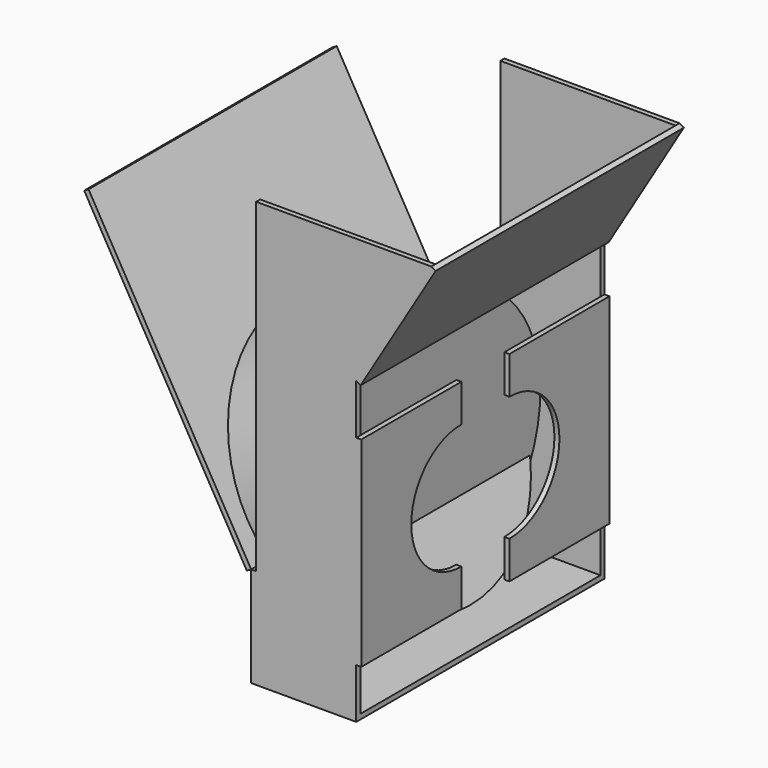
from build123d import *

# Parameters (mm, degrees)
F0_W      = 101.6
F0_H      = 304.8
F1_DEPTH  = 2.54
F3_DEPTH  = 5.08
F5_DEPTH  = 5.08
F6_W      = 314.96
F6_H      = 148.1061781291
F7_DEPTH  = 5.08
F8_W      = 314.96
F8_H      = 101.6
F9_DEPTH  = 5.08
F11_DEPTH = 5.08
F12_ANGLE = 30
F14_DEPTH = 5.08
F15_W     = 5.08
F15_H     = 203.2
F16_DEPTH = 5.08
F17_R     = 139.7
F18_DEPTH = 50.8
F19_R     = 139.7
F20_DEPTH = 50.8


with BuildPart() as f1:
    # F0 (on Top) → F1 (new body, symmetric)
    with BuildSketch(Plane.XY):
        Rectangle(F0_W, F0_H)
    extrude(amount=F1_DEPTH, both=True)

    # F2 (on face) → F3 (join)
    with BuildSketch(Plane.XZ.offset(152.4)):
        Polygon((50.8, 429.26), (-50.8, 429.26), (-50.8, -2.54), (50.8, -2.54), (50.8, 302.26), align=None)
        Polygon((127, 429.26), (50.8, 429.26), (50.8, 302.26), align=None)
    extrude(amount=F3_DEPTH)

    # F4 (on face) → F5 (join)
    with BuildSketch(Plane(origin=(0, 152.4, 0), x_dir=(-1, 0, 0), z_dir=(0, 1, 0))):
        Polygon((50.8, 429.26), (-50.8, 429.26), (-50.8, 302.26), (-50.8, -2.54), (50.8, -2.54), align=None)
        Polygon((-50.8, 302.26), (-50.8, 429.26), (-127, 429.26), align=None)
    extrude(amount=F5_DEPTH)

    # F6 (on face) → F7 (join)
    with BuildSketch(Plane(origin=(-95.9970588235, 0, 57.5982352941), x_dir=(0, 1, 0), z_dir=(0.8574929257, 0, -0.5144957554))):
        with Locations((0, 359.3752851661)):
            Rectangle(F6_W, F6_H)
    extrude(amount=F7_DEPTH)

    # F8 (on face) → F9 (join)
    with BuildSketch(Plane(origin=(-50.8, 0, 0), x_dir=(0, -1, 0), z_dir=(-1, 0, 0))):
        with Locations((0, 48.26)):
            Rectangle(F8_W, F8_H)
    extrude(amount=F9_DEPTH)

    # F13 (on face) → F14 (join)
    with BuildSketch(Plane.YZ.offset(50.8)):
        with BuildLine():
            Line((30.48, 86.36), (30.48, 48.26))
            Line((30.48, 48.26), (157.48, 48.26))
            Line((157.48, 48.26), (157.48, 251.46))
            Line((157.48, 251.46), (30.48, 251.46))
            Line((30.48, 251.46), (30.48, 213.36))
            ThreePointArc((30.48, 213.36), (93.98, 149.86), (30.48, 86.36))
        make_face()
    extrude(amount=F14_DEPTH)

    # F15 (on face) → F16 (join)
    with BuildSketch(Plane.YZ.offset(50.8)):
        with BuildLine():
            Line((-30.48, 251.46), (-152.4, 251.46))
            Line((-152.4, 251.46), (-152.4, 48.26))
            Line((-152.4, 48.26), (-30.48, 48.26))
            Line((-30.48, 48.26), (-30.48, 86.36))
            ThreePointArc((-30.48, 86.36), (-93.98, 149.86), (-30.48, 213.36))
            Line((-30.48, 213.36), (-30.48, 251.46))
        make_face()
        with Locations((-154.94, 149.86)):
            Rectangle(F15_W, F15_H)
    extrude(amount=F16_DEPTH)

    # F17 (on face) → F18 (join)
    with BuildSketch(Plane.YZ.offset(-50.8)):
        with Locations((0, 156.6007137299)):
            Circle(F17_R)
    extrude(amount=F18_DEPTH)


with BuildPart() as f11:
    # F10 (on face) → F11 (new body)
    with BuildSketch(Plane(origin=(-55.88, 0, 0), x_dir=(0, -1, 0), z_dir=(-1, 0, 0))):
        Polygon((-157.48, 429.26), (-157.48, 99.06), (0, 99.06), (157.48, 99.06), (157.48, 429.26), align=None)
        with BuildLine():
            ThreePointArc((63.5, 187.96), (44.9012806053, 143.0587193947), (0, 124.46))
            ThreePointArc((0, 124.46), (-44.9012806053, 232.8612806053), (63.5, 187.96))
        make_face(mode=Mode.SUBTRACT)
    extrude(amount=F11_DEPTH)


with BuildPart() as f11_1:
    # F12: moved
    add(f11.part.rotate(Axis((-55.88, 0, 99.06), (0, -1, 0)), F12_ANGLE))


with BuildPart() as f20:
    # F19 (on face) → F20 (new body)
    with BuildSketch(Plane(origin=(0.9842382494, 0, 0.5682502183), x_dir=(0, 1, 0), z_dir=(0.8660254038, 0, 0.5))):
        with Locations((0, 149.2218226194)):
            Circle(F19_R)
    extrude(amount=F20_DEPTH)


solid = Compound([f1.part, f11_1.part, f20.part])
